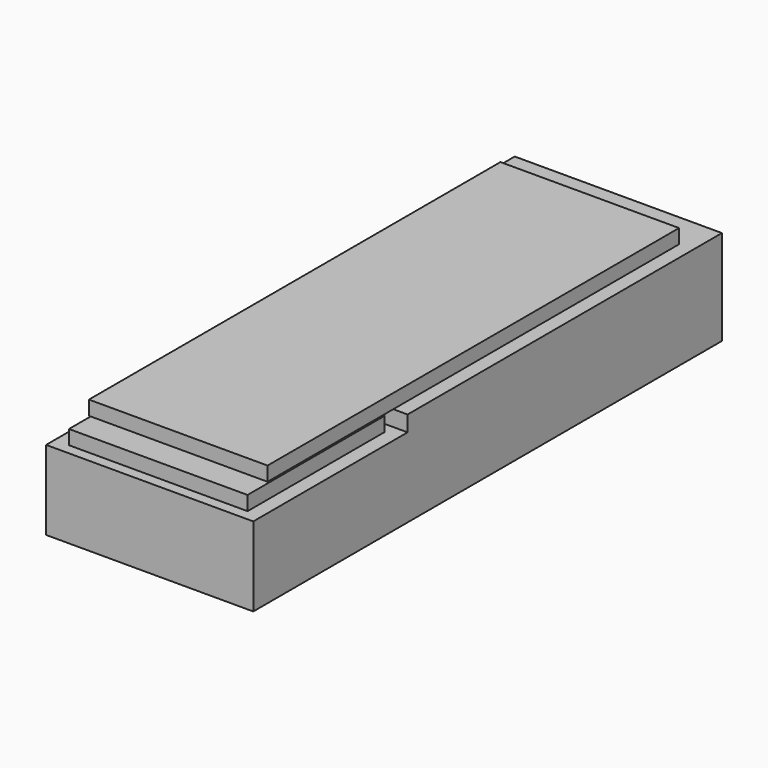
from build123d import *

# Parameters (mm, degrees)
F3_DEPTH = 14.5
F2_W     = 24
F2_H     = 2
F4_DEPTH = 12.5
F2_W_2   = 72
F5_DEPTH = 12.5


with BuildPart() as f3:
    # F1 (on Right) → F3 (new body, symmetric)
    with BuildSketch(Plane.YZ):
        Polygon((82, 7.75), (27, 7.75), (27, 5.55), (0, 5.55), (0, -5.55), (82, -5.55), align=None)
    extrude(amount=F3_DEPTH, both=True)


with BuildPart() as f4:
    # F2 (on Right) → F4 (new body, symmetric)
    with BuildSketch(Plane.YZ):
        with Locations((13.5, 6.55)):
            Rectangle(F2_W, F2_H)
    extrude(amount=F4_DEPTH, both=True)


with BuildPart() as f5:
    # F2 (on Right) → F5 (new body, symmetric)
    with BuildSketch(Plane.YZ):
        with Locations((41, 8.75)):
            Rectangle(F2_W_2, F2_H)
    extrude(amount=F5_DEPTH, both=True)


solid = Compound([f3.part, f4.part, f5.part])
